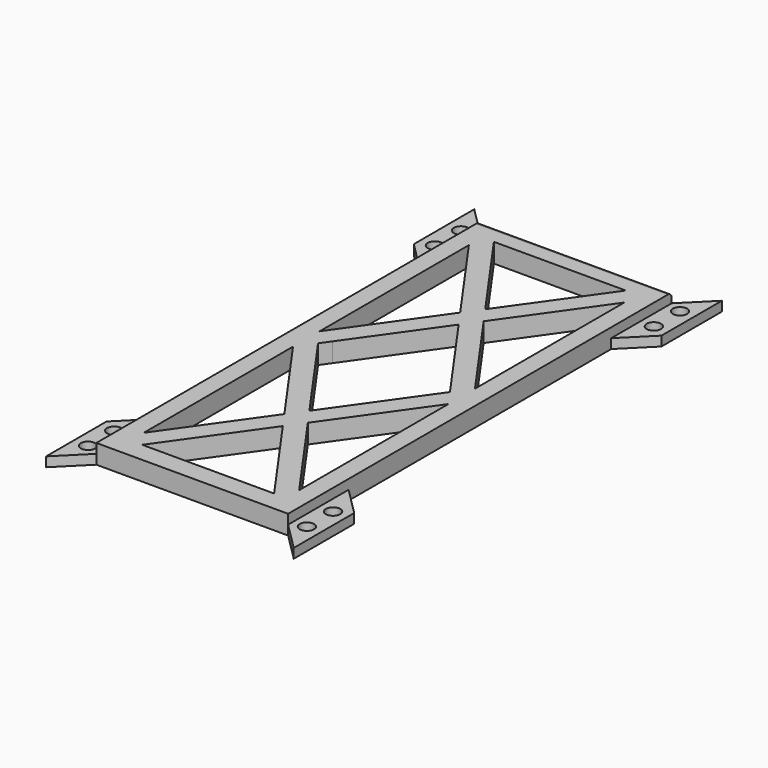
from build123d import *

# Parameters (mm, degrees)
F1_DEPTH = 4
F2_DEPTH = 2
F3_D     = 3
F4_R     = 1


with BuildPart() as f1:
    # F0 (on Top) → F1 (new body)
    with BuildSketch(Plane.XY):
        Polygon((20, 34.2358313501), (20, 50), (-20, 50), (-20, 34.2358313501), (-20, -34.2358313501), (-20, -50), (20, -50), (20, -34.2358313501), align=None)
        Polygon((16.206420958, -42.3818695248), (16.206420958, -45.8463579416), (13.757067936, -45.8463579416), (-13.757067936, -45.8463579416), (-16.206420958, -45.8463579416), (-16.206420958, -42.3818695248), (-16.206420958, -3.4644884169), (-16.206420958, -2), (-16.206420958, 0), (-16.206420958, 2), (-16.206420958, 3.4644884169), (-16.206420958, 42.3818695248), (-16.206420958, 45.8463579416), (-13.757067936, 45.8463579416), (13.757067936, 45.8463579416), (16.206420958, 45.8463579416), (16.206420958, 42.3818695248), (16.206420958, 3.4644884169), (16.206420958, 2), (16.206420958, 0), (16.206420958, -2), (16.206420958, -3.4644884169), align=None, mode=Mode.SUBTRACT)
        Polygon((1.224676511, 24.6554231792), (16.206420958, 45.8463579416), (13.757067936, 45.8463579416), (0, 26.3876673877), align=None)
        Polygon((2.4493530221, 22.9231789708), (16.206420958, 42.3818695248), (16.206420958, 45.8463579416), (1.224676511, 24.6554231792), align=None)
        Polygon((-2.4493530221, 22.9231789708), (-1.224676511, 24.6554231792), (-16.206420958, 45.8463579416), (-16.206420958, 42.3818695248), align=None)
        Polygon((-16.206420958, 45.8463579416), (-1.224676511, 24.6554231792), (0, 26.3876673877), (-13.757067936, 45.8463579416), align=None)
        Polygon((-16.206420958, -42.3818695248), (-16.206420958, -45.8463579416), (-1.224676511, -24.6554231792), (-2.4493530221, -22.9231789708), align=None)
        Polygon((-16.206420958, -45.8463579416), (-13.757067936, -45.8463579416), (0, -26.3876673877), (-1.224676511, -24.6554231792), align=None)
        Polygon((1.224676511, -24.6554231792), (16.206420958, -45.8463579416), (16.206420958, -42.3818695248), (2.4493530221, -22.9231789708), align=None)
        Polygon((13.757067936, -45.8463579416), (16.206420958, -45.8463579416), (1.224676511, -24.6554231792), (0, -26.3876673877), align=None)
        Polygon((14.7924442161, 2), (16.206420958, 2), (16.206420958, 3.4644884169), (2.4493530221, 22.9231789708), (1.224676511, 21.1909347624), align=None)
        Polygon((-16.206420958, 3.4644884169), (-16.206420958, 2), (-14.7924442161, 2), (-1.224676511, 21.1909347624), (-2.4493530221, 22.9231789708), align=None)
        Polygon((-2.4493530221, -22.9231789708), (-1.224676511, -21.1909347624), (-14.7924442161, -2), (-16.206420958, -2), (-16.206420958, -3.4644884169), align=None)
        Polygon((2.4493530221, -22.9231789708), (16.206420958, -3.4644884169), (16.206420958, -2), (14.7924442161, -2), (1.224676511, -21.1909347624), align=None)
        Polygon((12.343091194, 2), (14.7924442161, 2), (1.224676511, 21.1909347624), (0, 19.458690554), align=None)
        Polygon((-1.224676511, 21.1909347624), (-14.7924442161, 2), (-12.343091194, 2), (0, 19.458690554), align=None)
        Polygon((-14.7924442161, -2), (-1.224676511, -21.1909347624), (0, -19.458690554), (-12.343091194, -2), align=None)
        Polygon((0, -19.458690554), (1.224676511, -21.1909347624), (14.7924442161, -2), (12.343091194, -2), align=None)
        Polygon((14.7924442161, -2), (16.206420958, 0), (13.757067936, 0), (12.343091194, -2), align=None)
        Polygon((13.757067936, 0), (16.206420958, 0), (14.7924442161, 2), (12.343091194, 2), align=None)
        Polygon((-16.206420958, 0), (-14.7924442161, -2), (-12.343091194, -2), (-13.757067936, 0), align=None)
        Polygon((-14.7924442161, 2), (-16.206420958, 0), (-13.757067936, 0), (-12.343091194, 2), align=None)
        Polygon((0, 22.9231789708), (1.224676511, 21.1909347624), (2.4493530221, 22.9231789708), (1.224676511, 24.6554231792), align=None)
        Polygon((-1.224676511, 24.6554231792), (0, 22.9231789708), (1.224676511, 24.6554231792), (0, 26.3876673877), align=None)
        Polygon((-1.224676511, 21.1909347624), (0, 22.9231789708), (-1.224676511, 24.6554231792), (-2.4493530221, 22.9231789708), align=None)
        Polygon((0, 19.458690554), (1.224676511, 21.1909347624), (0, 22.9231789708), (-1.224676511, 21.1909347624), align=None)
        Polygon((-1.224676511, -21.1909347624), (0, -22.9231789708), (1.224676511, -21.1909347624), (0, -19.458690554), align=None)
        Polygon((0, -22.9231789708), (1.224676511, -24.6554231792), (2.4493530221, -22.9231789708), (1.224676511, -21.1909347624), align=None)
        Polygon((0, -26.3876673877), (1.224676511, -24.6554231792), (0, -22.9231789708), (-1.224676511, -24.6554231792), align=None)
        Polygon((-1.224676511, -24.6554231792), (0, -22.9231789708), (-1.224676511, -21.1909347624), (-2.4493530221, -22.9231789708), align=None)
        Polygon((14.7924442161, -2), (16.206420958, -2), (16.206420958, 0), align=None)
        Polygon((14.7924442161, 2), (16.206420958, 0), (16.206420958, 2), align=None)
        Polygon((-16.206420958, 2), (-16.206420958, 0), (-14.7924442161, 2), align=None)
        Polygon((-16.206420958, -2), (-14.7924442161, -2), (-16.206420958, 0), align=None)
    extrude(amount=F1_DEPTH)

    # F0 (on Top) → F2 (join)
    with BuildSketch(Plane.XY):
        Polygon((25.830000639, 55.8186091483), (20, 50), (20, 34.2358313501), (25.830000639, 40.0544404984), align=None)
        Polygon((-20, 34.2358313501), (-20, 50), (-25.830000639, 55.8186091483), (-25.830000639, 40.0544404984), align=None)
        Polygon((-20, -50), (-20, -34.2358313501), (-25.830000639, -40.0544404984), (-25.830000639, -55.8186091483), align=None)
        Polygon((25.830000639, -40.0544404984), (20, -34.2358313501), (20, -50), (25.830000639, -55.8186091483), align=None)
    extrude(amount=F2_DEPTH)

    # F3 (through all)
    with Locations(Plane(origin=(0, 0, 0), x_dir=(1, 0, 0), z_dir=(0, 0, -1))):
        with Locations((22.830000639, -48.6315488815), (22.830000639, -41.8172627687), (-22.830000639, -48.6315488815), (-22.830000639, -41.8172627687), (-22.830000639, 41.8172627687), (-22.830000639, 48.6315488815), (22.830000639, 41.8172627687), (22.830000639, 48.6315488815)):
            Hole(F3_D / 2)

    # F4
    f4_edges = [f1.edges().sort_by_distance(p)[0] for p in [
        (0, 50, 4),
        (0, 50, 0),
    ]]
    fillet(f4_edges, radius=F4_R)


solid = f1.part
